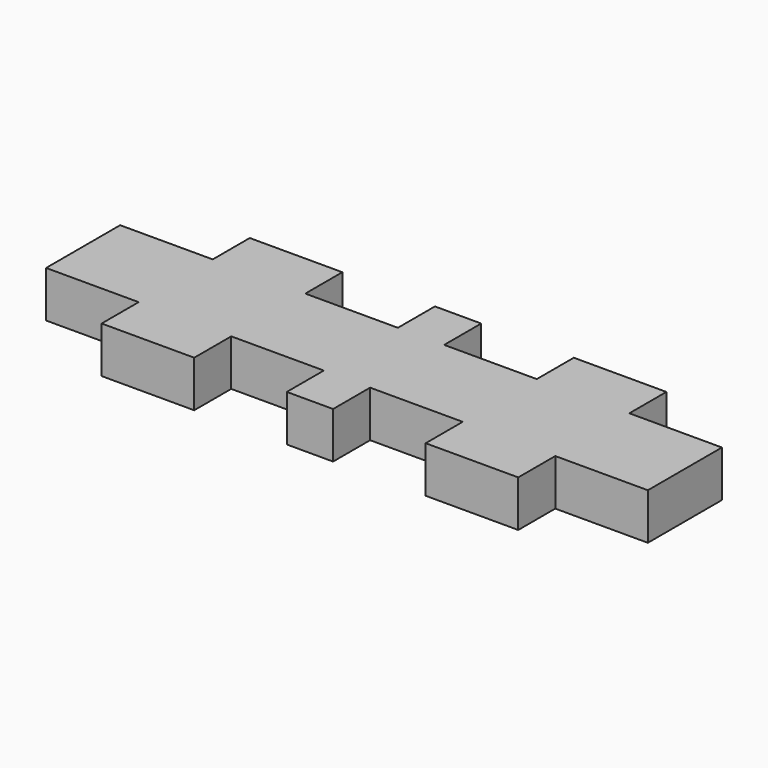
from build123d import *

# Parameters (mm, degrees)
F1_DEPTH = 6.35


with BuildPart() as f1:
    # F0 (on Top) → F1 (new body)
    with BuildSketch(Plane.XY):
        Polygon((12.7, -19.05), (12.7, -25.4), (25.4, -25.4), (25.4, -19.05), (38.1, -19.05), (38.1, -25.4), (44.45, -25.4), (44.45, -19.05), (57.15, -19.05), (57.15, -25.4), (69.85, -25.4), (69.85, -19.05), (82.55, -19.05), (82.55, -6.35), (69.85, -6.35), (69.85, 0), (57.15, 0), (57.15, -6.35), (44.45, -6.35), (44.45, 0), (38.1, 0), (38.1, -6.35), (25.4, -6.35), (25.4, 0), (12.7, 0), (12.7, -6.35), (0, -6.35), (0, -19.05), align=None)
    extrude(amount=F1_DEPTH)


solid = f1.part
